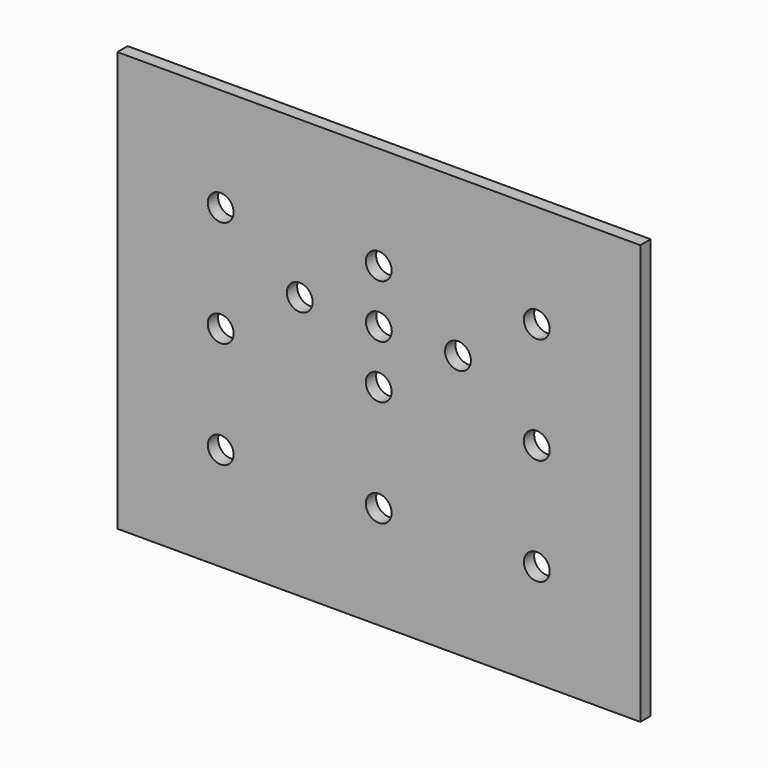
from build123d import *

# Parameters (mm, degrees)
F0_W     = 257.175
F0_H     = 206.375
F0_W_2   = 206.375
F0_H_2   = 155.575
F0_R     = 6.35
F1_DEPTH = 6.35
F2_R     = 6.35
F3_DEPTH = 25.4


with BuildPart() as f1:
    # F0 (on Front) → F1 (new body)
    with BuildSketch(Plane.XZ):
        Rectangle(F0_W, F0_H)
        Rectangle(F0_W_2, F0_H_2, mode=Mode.SUBTRACT)
        Rectangle(F0_W_2, F0_H_2)
        with Locations((-77.7875, -52.5145)):
            Circle(F0_R, mode=Mode.SUBTRACT)
        with Locations((-0.0635, -52.5145)):
            Circle(F0_R, mode=Mode.SUBTRACT)
        with Locations((-77.7875, -0.0635)):
            Circle(F0_R, mode=Mode.SUBTRACT)
        with Locations((-0.0635, -0.0635)):
            Circle(F0_R, mode=Mode.SUBTRACT)
        with Locations((77.6605, -52.5145)):
            Circle(F0_R, mode=Mode.SUBTRACT)
        with Locations((77.6605, -0.0635)):
            Circle(F0_R, mode=Mode.SUBTRACT)
        with Locations((-77.7875, 52.3875)):
            Circle(F0_R, mode=Mode.SUBTRACT)
        with Locations((-0.0635, 52.3875)):
            Circle(F0_R, mode=Mode.SUBTRACT)
        with Locations((77.6605, 52.3875)):
            Circle(F0_R, mode=Mode.SUBTRACT)
    extrude(amount=F1_DEPTH)

    # F2 (on face) → F3 (cut)
    with BuildSketch(Plane.XZ.offset(6.35)):
        with Locations((-38.9001, 26.161997)):
            Circle(F2_R)
        with Locations((0.0127, 26.161997)):
            Circle(F2_R)
        with Locations((38.9255, 26.161997)):
            Circle(F2_R)
    extrude(amount=-F3_DEPTH, mode=Mode.SUBTRACT)


solid = f1.part
